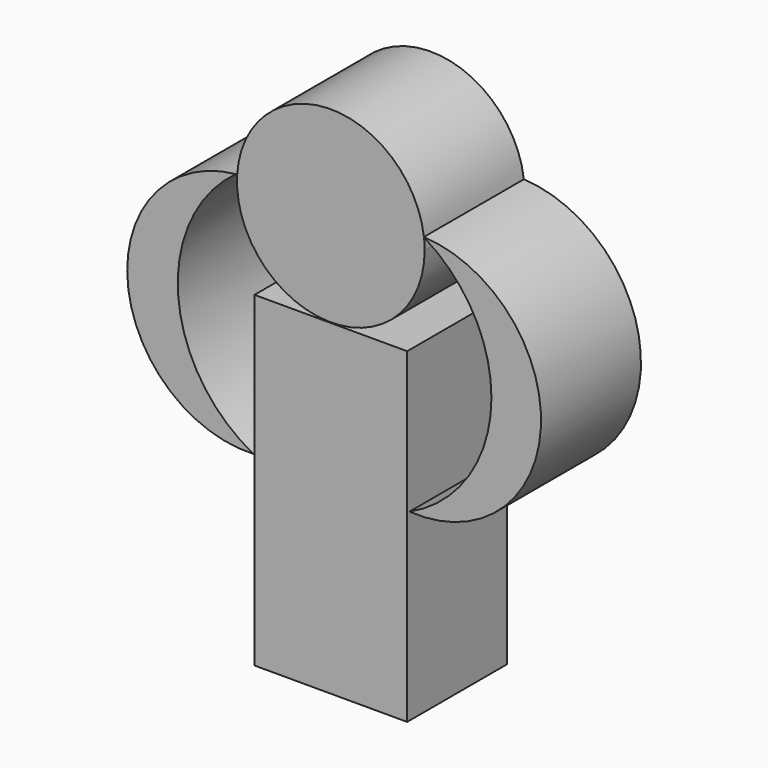
from build123d import *

# Parameters (mm, degrees)
F0_R     = 15.023375
F1_DEPTH = 20
F2_W     = 24.446092
F2_H     = 52.251186
F3_DEPTH = 20
F5_DEPTH = 20
F7_DEPTH = 20


with BuildPart() as f1:
    # F0 (on Front) → F1 (new body)
    with BuildSketch(Plane.XZ):
        with Locations((0, 37.602194)):
            Circle(F0_R)
    extrude(amount=F1_DEPTH)

    # F4 (on Front) → F5 (join)
    with BuildSketch(Plane.XZ):
        with BuildLine():
            ThreePointArc((14.835604, 39.468307), (25.678187, 19.055445), (12.59627, 0))
            ThreePointArc((12.59627, 0), (33.625551, 18.604531), (14.835604, 39.468307))
        make_face()
    extrude(amount=F5_DEPTH)


with BuildPart() as f3:
    # F2 (on Front) → F3 (new body)
    with BuildSketch(Plane.XZ):
        with Locations((1e-06, -3.638921)):
            Rectangle(F2_W, F2_H)
    extrude(amount=F3_DEPTH)


with BuildPart() as f7:
    # F6 (on Front) → F7 (new body)
    with BuildSketch(Plane.XZ):
        with BuildLine():
            ThreePointArc((-12.409657, 0), (-24.444685, 18.495074), (-15.208827, 38.535248))
            ThreePointArc((-15.208827, 38.535248), (-32.548473, 17.906421), (-12.409657, 0))
        make_face()
    extrude(amount=F7_DEPTH)


solid = Compound([f1.part, f3.part, f7.part])
